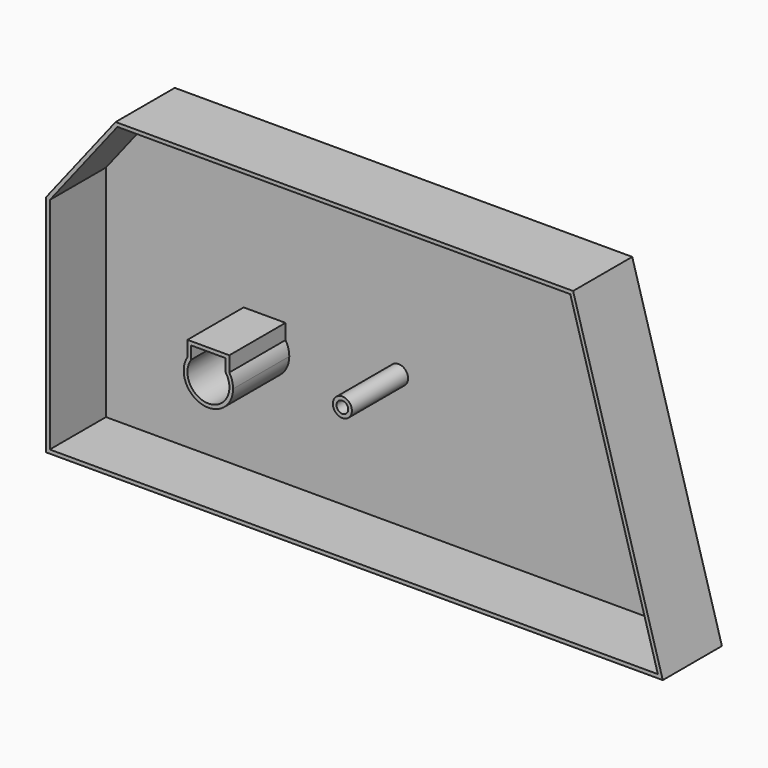
from build123d import *

# Parameters (mm, degrees)
F0_R     = 3.9385625542
F1_DEPTH = 50
F2_T     = -2.5


with BuildPart() as f1:
    # F0 (on Front) → F1 (new body)
    with BuildSketch(Plane.XZ):
        Polygon((-63.6753439903, 131.7894458771), (-110.7138618827, 71.7433527191), (-110.7138618827, -80.1898017526), (306.3688576221, -80.1898017526), (245.7079440355, 131.7894458771), align=None)
        with BuildLine():
            ThreePointArc((10.7150094085, 6.889880588), (12.6143743289, 3.0256211841), (13.267535524, -1.2303708618))
            ThreePointArc((13.267535524, -1.2303708618), (-5.1497771024, -14.7795789773), (-12.6024631263, 6.836061563))
            Line((-12.6024631263, 6.836061563), (-12.6024631263, 15.3979491442))
            Line((-12.6024631263, 15.3979491442), (10.7150094085, 15.3979491442))
            Line((10.7150094085, 15.3979491442), (10.7150094085, 6.889880588))
        make_face(mode=Mode.SUBTRACT)
        with Locations((89.6744132042, 11.8231130764)):
            Circle(F0_R, mode=Mode.SUBTRACT)
    extrude(amount=F1_DEPTH)

    # F2
    f2_openings = [f1.faces().sort_by_distance(p)[0] for p in [
        (86.977321, -50, 21.670217),
    ]]
    offset(amount=F2_T, openings=f2_openings, kind=Kind.INTERSECTION)


solid = f1.part
